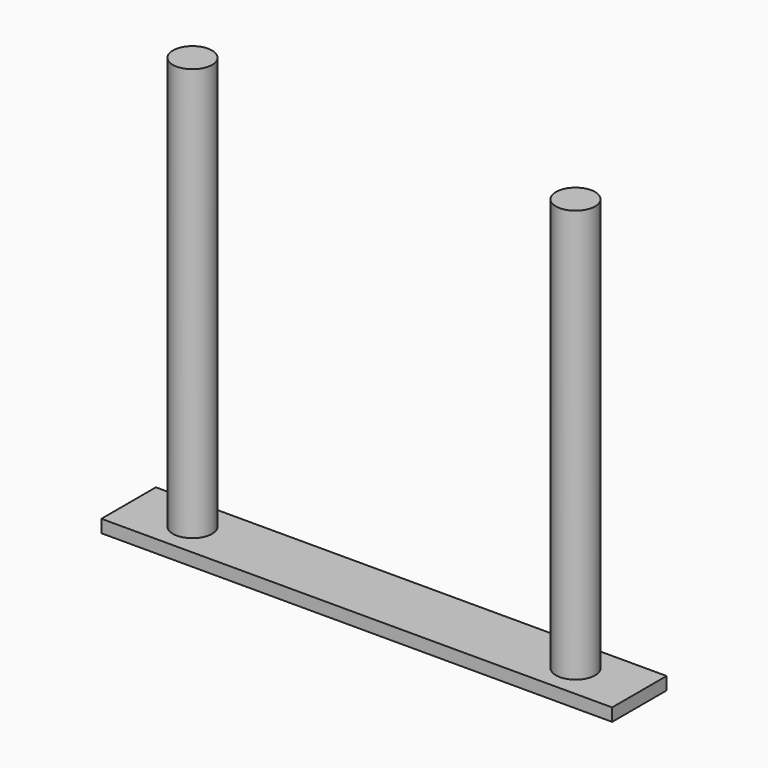
from build123d import *

# Parameters (mm, degrees)
F0_W     = 120
F0_H     = 16
F1_DEPTH = 3
F2_R     = 4.6
F3_DEPTH = 100


with BuildPart() as f1:
    # F0 (on Top) → F1 (new body)
    with BuildSketch(Plane.XY):
        Rectangle(F0_W, F0_H)
    extrude(amount=F1_DEPTH)

    # F2 (on Top) → F3 (join)
    with BuildSketch(Plane.XY):
        with Locations((-45, 0)):
            Circle(F2_R)
        with Locations((45, 0)):
            Circle(F2_R)
    extrude(amount=F3_DEPTH)


solid = f1.part
